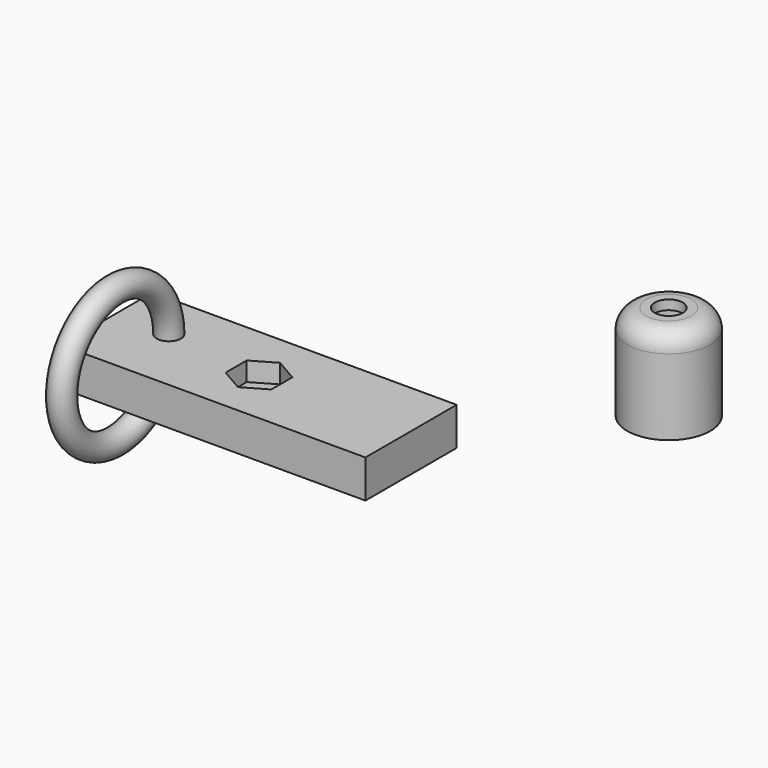
from build123d import *

# Parameters (mm, degrees)
F0_W      = 80
F0_H      = 30
F1_DEPTH  = 10
F3_DEPTH  = 5
F4_R      = 3.211143
F6_R      = 10.936743
F7_DEPTH  = 25
F8_R      = 5
F9_T      = -2.5
F10_R     = 3.69251
F11_DEPTH = 25


with BuildPart() as f1:
    # F0 (on Top) → F1 (new body)
    with BuildSketch(Plane.XY):
        Rectangle(F0_W, F0_H)
    extrude(amount=F1_DEPTH)

    # F2 (on face) → F3 (cut)
    with BuildSketch(Plane.XY.offset(10)):
        Polygon((6, -3.464102), (6, 3.464102), (0, 6.928203), (-6, 3.464102), (-6, -3.464102), (0, -6.928203), align=None)
    extrude(amount=-F3_DEPTH, mode=Mode.SUBTRACT)

    # F4 (on face) → F5 (revolve)
    with BuildSketch(Plane.XY.offset(10)):
        with Locations((-25.822865, 2.626295)):
            Circle(F4_R)
    revolve(axis=Axis((0, -15, 10), (1, 0, 0)))


with BuildPart() as f7:
    # F6 (on Top) → F7 (new body)
    with BuildSketch(Plane.XY):
        with Locations((65.044165, 53.453304)):
            Circle(F6_R)
    extrude(amount=F7_DEPTH)

    # F8
    f8_edges = [f7.edges().sort_by_distance(p)[0] for p in [
        (54.107422, 53.453304, 25),
    ]]
    fillet(f8_edges, radius=F8_R)

    # F9
    f9_openings = [f7.faces().sort_by_distance(p)[0] for p in [
        (65.044165, 53.453304, 0),
    ]]
    offset(amount=F9_T, openings=f9_openings)

    # F10 (on face) → F11 (cut)
    with BuildSketch(Plane.XY.offset(25)):
        with Locations((65.044165, 53.453304)):
            Circle(F10_R)
    extrude(amount=-F11_DEPTH, mode=Mode.SUBTRACT)


solid = Compound([f1.part, f7.part])
